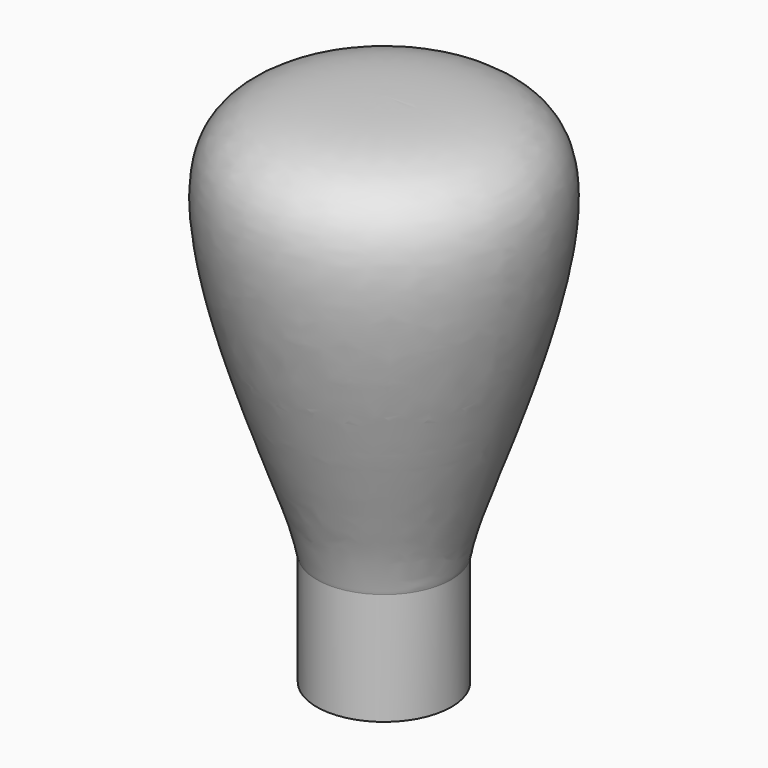
from build123d import *

# Parameters (mm, degrees)
F0_W = 10
F0_H = 16.6265054392


with BuildPart() as f1:
    # F0 (on Front) → F1 (revolve)
    with BuildSketch(Plane.XZ):
        with BuildLine():
            Line((-5, 68.3132527196), (-5, 8.3132527196))
            Line((-5, 8.3132527196), (5, 8.3132527196))
            add(Edge.make_bspline(
                [(-5, 68.3132527196), (5.0227302127, 68.2310461998), (28.4055140042, 67.6361321729), (5.2642259242, 13.1395222663), (5.270130648, 9.0427201073), (5, 8.3132527196)],
                knots=[0, 0, 0, 0, 0.3475898614, 0.8482459544, 1, 1, 1, 1], degree=3))
        make_face()
        Rectangle(F0_W, F0_H)
    revolve(axis=Axis((-5, 0, 38.3132527196), (0, 0, 1)))


solid = f1.part
